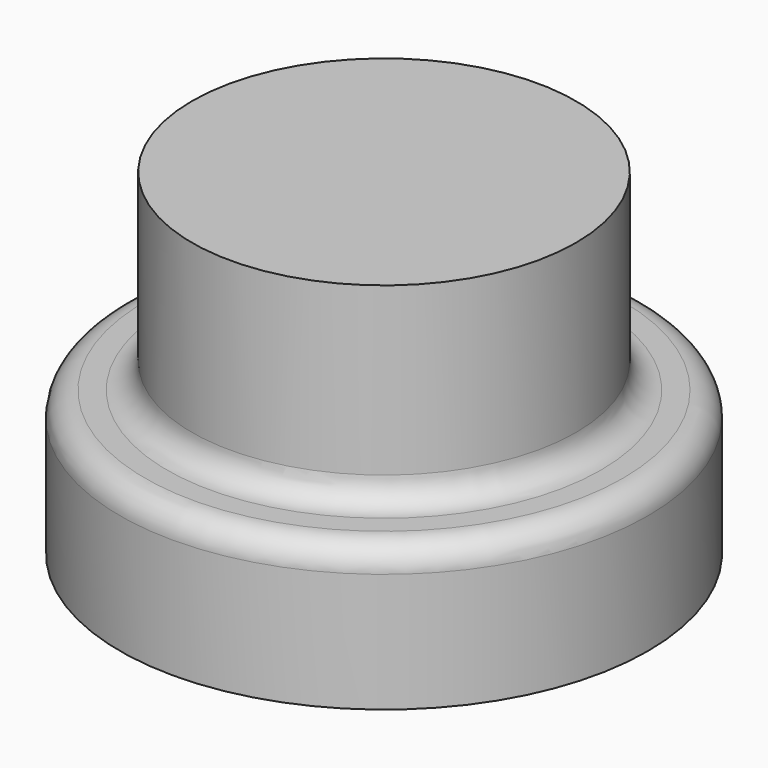
from build123d import *

# Parameters (mm, degrees)
F0_R     = 5.08
F1_DEPTH = 8.89
F0_R_2   = 6.985
F2_DEPTH = 3.81
F3_R     = 0.6604


with BuildPart() as f1:
    # F0 (on Top) → F1 (new body)
    with BuildSketch(Plane.XY):
        Circle(F0_R)
    extrude(amount=F1_DEPTH)

    # F0 (on Top) → F2 (join)
    with BuildSketch(Plane.XY):
        Circle(F0_R_2)
        Circle(F0_R, mode=Mode.SUBTRACT)
    extrude(amount=F2_DEPTH)

    # F3
    f3_edges = [f1.edges().sort_by_distance(p)[0] for p in [
        (-6.985, 0, 3.81),
        (-5.08, 0, 3.81),
    ]]
    fillet(f3_edges, radius=F3_R)


solid = f1.part
